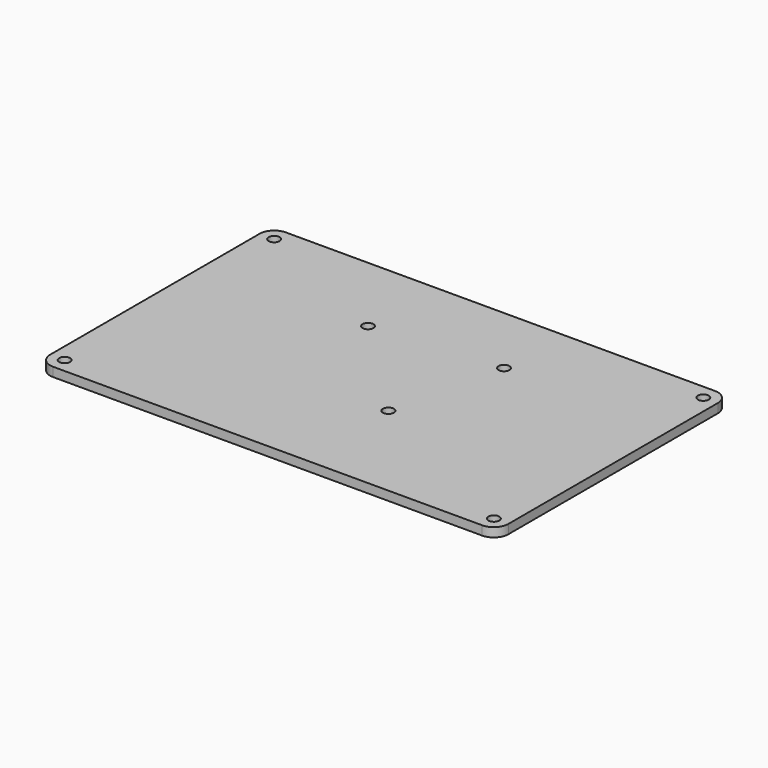
from build123d import *

# Parameters (mm, degrees)
F0_R     = 1.905
F1_DEPTH = 3.175


with BuildPart() as f1:
    # F0 (on Top) → F1 (new body)
    with BuildSketch(Plane.XY):
        with BuildLine():
            Line((74.93, 50.8), (-74.93, 50.8))
            ThreePointArc((-74.93, 50.8), (-78.522102, 49.312102), (-80.01, 45.72))
            Line((-80.01, 45.72), (-80.01, -45.72))
            ThreePointArc((-80.01, -45.72), (-78.522102, -49.312102), (-74.93, -50.8))
            Line((-74.93, -50.8), (74.93, -50.8))
            ThreePointArc((74.93, -50.8), (78.522102, -49.312102), (80.01, -45.72))
            Line((80.01, -45.72), (80.01, 45.72))
            ThreePointArc((80.01, 45.72), (78.522102, 49.312102), (74.93, 50.8))
        make_face()
        with Locations((-74.93, -45.72)):
            Circle(F0_R, mode=Mode.SUBTRACT)
        with Locations((74.93, -45.72)):
            Circle(F0_R, mode=Mode.SUBTRACT)
        with Locations((12.7, -13.97)):
            Circle(F0_R, mode=Mode.SUBTRACT)
        with Locations((-22.86, 21.59)):
            Circle(F0_R, mode=Mode.SUBTRACT)
        with Locations((-74.93, 45.72)):
            Circle(F0_R, mode=Mode.SUBTRACT)
        with Locations((21.59, 25.4)):
            Circle(F0_R, mode=Mode.SUBTRACT)
        with Locations((74.93, 45.72)):
            Circle(F0_R, mode=Mode.SUBTRACT)
    extrude(amount=F1_DEPTH)


solid = f1.part
